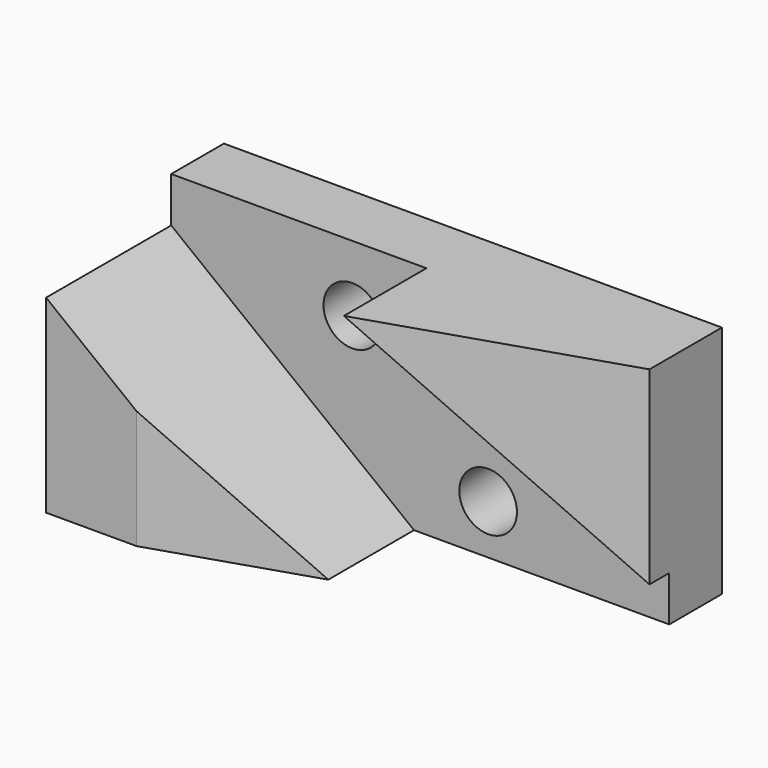
from build123d import *

# Parameters (mm, degrees)
F0_W     = 121
F0_H     = 57
F1_DEPTH = 54
F3_DEPTH = 57.001
F4_R     = 7
F5_DEPTH = 54.001
F7_DEPTH = 38


with BuildPart() as f1:
    # F0 (on Front) → F1 (new body)
    with BuildSketch(Plane.XZ):
        with Locations((60.5, 28.5)):
            Rectangle(F0_W, F0_H)
    extrude(amount=F1_DEPTH)

    # F2 (on face) → F3 (cut, through all)
    with BuildSketch(Plane.XY.offset(57)):
        Polygon((121, -22), (22, -54), (121, -54), align=None)
    extrude(amount=-F3_DEPTH, mode=Mode.SUBTRACT)

    # F4 (on Front) → F5 (cut, through all)
    with BuildSketch(Plane.XZ):
        with Locations((44, 41)):
            Circle(F4_R)
        with Locations((77, 12)):
            Circle(F4_R)
    extrude(amount=F5_DEPTH, mode=Mode.SUBTRACT)

    # F6 (on face) → F7 (cut)
    with BuildSketch(Plane.XZ.offset(54)):
        Polygon((59, 0), (121, 0), (121, 11), (62, 57), (0, 57), (0, 46), align=None)
    extrude(amount=-F7_DEPTH, mode=Mode.SUBTRACT)


solid = f1.part
